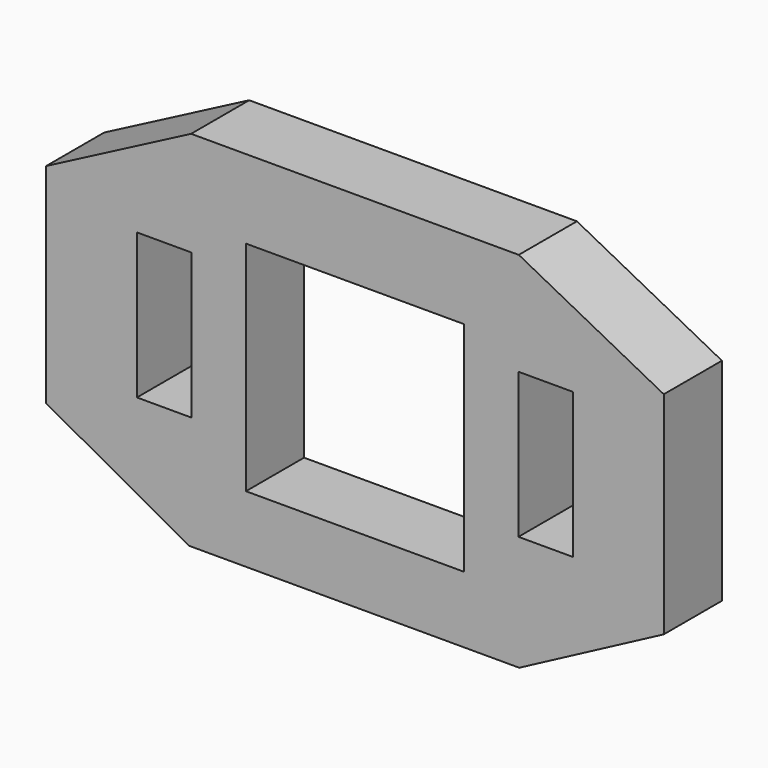
from build123d import *

# Parameters (mm, degrees)
F0_W      = 215.9
F0_H      = 127
F1_DEPTH  = 25.4
F3_DEPTH  = 25.4
F4_DEPTH  = 25.4
F5_DEPTH  = 25.4
F6_DEPTH  = 25.4
F7_W      = 76.2
F7_H      = 76.2
F8_DEPTH  = 25.4
F9_W      = 19.05
F9_H      = 50.8
F10_DEPTH = 25.4


with BuildPart() as f1:
    # F0 (on Front) → F1 (new body)
    with BuildSketch(Plane.XZ):
        with Locations((12.806937, -5.306549)):
            Rectangle(F0_W, F0_H)
    extrude(amount=F1_DEPTH)

    # F2 (on face) → F3 (cut)
    with BuildSketch(Plane.XZ.offset(25.4)):
        Polygon((-95.143063, 58.193451), (-95.143063, 31.784684), (-44.460724, 58.193451), align=None)
    extrude(amount=-F3_DEPTH, mode=Mode.SUBTRACT)

    # F2 (on face) → F4 (cut)
    with BuildSketch(Plane.XZ.offset(25.4)):
        Polygon((-45.112216, -68.806549), (-95.143063, -41.183426), (-95.143063, -68.806549), align=None)
    extrude(amount=-F4_DEPTH, mode=Mode.SUBTRACT)

    # F2 (on face) → F5 (cut)
    with BuildSketch(Plane.XZ.offset(25.4)):
        Polygon((120.756937, -42.098548), (70.231644, -68.806549), (120.756937, -68.806549), align=None)
    extrude(amount=-F5_DEPTH, mode=Mode.SUBTRACT)

    # F2 (on face) → F6 (cut)
    with BuildSketch(Plane.XZ.offset(25.4)):
        Polygon((120.756937, 58.193451), (70.074598, 58.193451), (120.756937, 31.784684), align=None)
    extrude(amount=-F6_DEPTH, mode=Mode.SUBTRACT)

    # F7 (on face) → F8 (cut)
    with BuildSketch(Plane.XZ.offset(25.4)):
        with Locations((12.806937, -7.448901)):
            Rectangle(F7_W, F7_H)
    extrude(amount=-F8_DEPTH, mode=Mode.SUBTRACT)

    # F9 (on face) → F10 (cut)
    with BuildSketch(Plane.XZ.offset(25.4)):
        with Locations((-53.868063, -3.692623)):
            Rectangle(F9_W, F9_H)
        with Locations((79.481937, -3.208301)):
            Rectangle(F9_W, F9_H)
    extrude(amount=-F10_DEPTH, mode=Mode.SUBTRACT)


solid = f1.part
